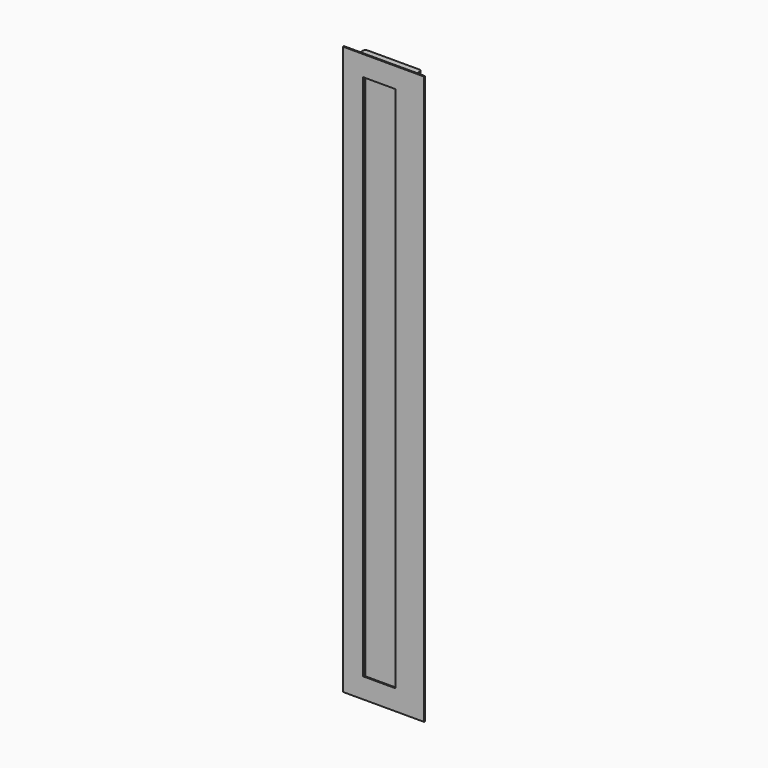
from build123d import *

# Parameters (mm, degrees)
F0_W     = 100
F0_H     = 700
F0_W_2   = 40
F0_H_2   = 650
F1_DEPTH = 1.5
F3_DEPTH = 340
F4_W     = 40
F4_H     = 680
F5_DEPTH = 1.5
F7_DEPTH = 1.5


with BuildPart() as f1:
    # F0 (on Front) → F1 (new body)
    with BuildSketch(Plane.XZ):
        Rectangle(F0_W, F0_H)
        with Locations((-5, 0)):
            Rectangle(F0_W_2, F0_H_2, mode=Mode.SUBTRACT)
    extrude(amount=F1_DEPTH)


with BuildPart() as f3:
    # F2 (on Top) → F3 (new body, symmetric)
    with BuildSketch(Plane.XY):
        with BuildLine():
            ThreePointArc((-40, 6.5), (-38.096194, 1.903806), (-33.5, 0))
            Line((-33.5, 0), (23.5, 0))
            ThreePointArc((23.5, 0), (28.096194, 1.903806), (30, 6.5))
            Line((30, 6.5), (30, 17))
            ThreePointArc((30, 17), (29.12132, 19.12132), (27, 20))
            Line((27, 20), (-37, 20))
            ThreePointArc((-37, 20), (-39.12132, 19.12132), (-40, 17))
            Line((-40, 17), (-40, 6.5))
        make_face()
        with BuildLine():
            ThreePointArc((-38.5, 17), (-38.06066, 18.06066), (-37, 18.5))
            Line((-37, 18.5), (27, 18.5))
            ThreePointArc((27, 18.5), (28.06066, 18.06066), (28.5, 17))
            Line((28.5, 17), (28.5, 6.5))
            ThreePointArc((28.5, 6.5), (27.035534, 2.964466), (23.5, 1.5))
            Line((23.5, 1.5), (-33.5, 1.5))
            ThreePointArc((-33.5, 1.5), (-37.035534, 2.964466), (-38.5, 6.5))
            Line((-38.5, 6.5), (-38.5, 17))
        make_face(mode=Mode.SUBTRACT)
    extrude(amount=F3_DEPTH, both=True)

    # F4 (on face) → F5 (cut, through all)
    with BuildSketch(Plane.XZ):
        with Locations((-5, 0)):
            Rectangle(F4_W, F4_H)
    extrude(amount=-F5_DEPTH, mode=Mode.SUBTRACT)


with BuildPart() as f7:
    # F6 (on face) → F7 (new body)
    with BuildSketch(Plane.XY.offset(340)):
        with BuildLine():
            Line((27, 20), (-37, 20))
            ThreePointArc((-37, 20), (-39.12132, 19.12132), (-40, 17))
            Line((-40, 17), (-40, 6.5))
            ThreePointArc((-40, 6.5), (-38.096194, 1.903806), (-33.5, 0))
            Line((-33.5, 0), (23.5, 0))
            ThreePointArc((23.5, 0), (28.096194, 1.903806), (30, 6.5))
            Line((30, 6.5), (30, 17))
            ThreePointArc((30, 17), (29.12132, 19.12132), (27, 20))
        make_face()
    extrude(amount=F7_DEPTH)


with BuildPart() as f8_1:
    # F8: instance of F7
    add(f7.part.mirror(Plane.XY))


solid = Compound([f1.part, f3.part, f7.part, f8_1.part])
